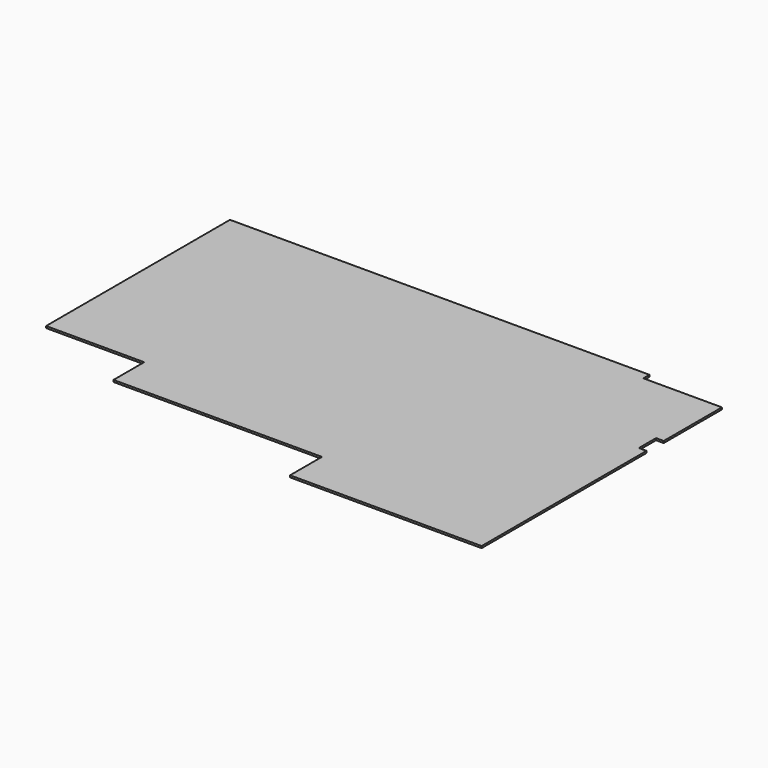
from build123d import *

# Parameters (mm, degrees)
F1_DEPTH = 25


with BuildPart() as f1:
    # F0 (on Top) → F1 (new body)
    with BuildSketch(Plane.XY):
        Polygon((0, -950), (0, 0), (-1025, 0), (-1025, 100), (-6500, 100), (-6500, -2900), (-5220, -2900), (-5220, -3400), (-2500, -3400), (-2500, -3920), (0, -3920), (0, -1230), (-100, -1230), (-100, -950), align=None)
    extrude(amount=-F1_DEPTH)


solid = f1.part
